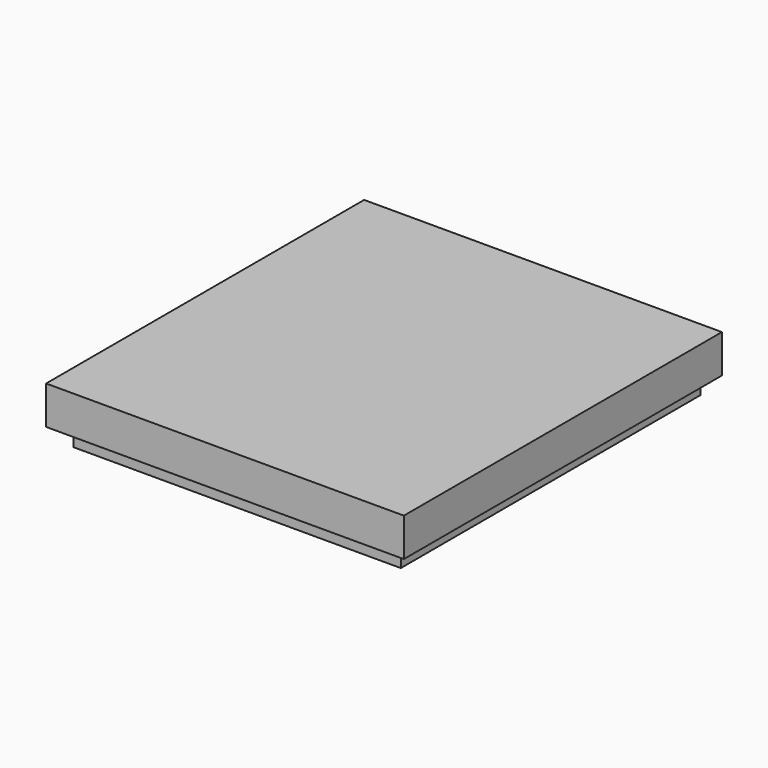
from build123d import *

# Parameters (mm, degrees)
SKETCH043_W     = 37.4
SKETCH043_H     = 41.56
PAD028_DEPTH    = 4
SKETCH044_W     = 34.2
SKETCH044_H     = 38.36
PAD029_DEPTH    = 2
SKETCH045_W     = 32.2
SKETCH045_H     = 36.36
POCKET024_DEPTH = 5
SKETCH046_W     = 34.2
SKETCH046_H     = 0.8
PAD030_DEPTH    = 0.8


with BuildPart() as part:
    # Sketch043 (on DatumPlane) → Pad028 (new body)
    with BuildSketch(Plane.XY.offset(6.7)):
        with Locations((16.9, 22.98)):
            Rectangle(SKETCH043_W, SKETCH043_H)
    extrude(amount=PAD028_DEPTH)

    # Sketch044 (on Face5 of Pad028) → Pad029 (join)
    with BuildSketch(Plane(origin=(0, 0, 6.7), x_dir=(1, 0, 0), z_dir=(0, 0, -1))):
        with Locations((16.9, -22.98)):
            Rectangle(SKETCH044_W, SKETCH044_H)
    extrude(amount=PAD029_DEPTH)

    # Sketch045 (on Face11 of Pad029) → Pocket024 (cut)
    with BuildSketch(Plane(origin=(0, 0, 4.7), x_dir=(1, 0, 0), z_dir=(0, 0, -1))):
        with Locations((16.9, -22.98)):
            Rectangle(SKETCH045_W, SKETCH045_H)
    extrude(amount=-POCKET024_DEPTH, mode=Mode.SUBTRACT)

    # Sketch046 (on Face9 of Pocket024) → Pad030 (join)
    with BuildSketch(Plane(origin=(0, 42.16, 6.7), x_dir=(-1, 0, 0), z_dir=(0, 1, 0))):
        with Locations((-16.9, -1.6)):
            Rectangle(SKETCH046_W, SKETCH046_H)
    extrude(amount=PAD030_DEPTH)


solid = part.part
